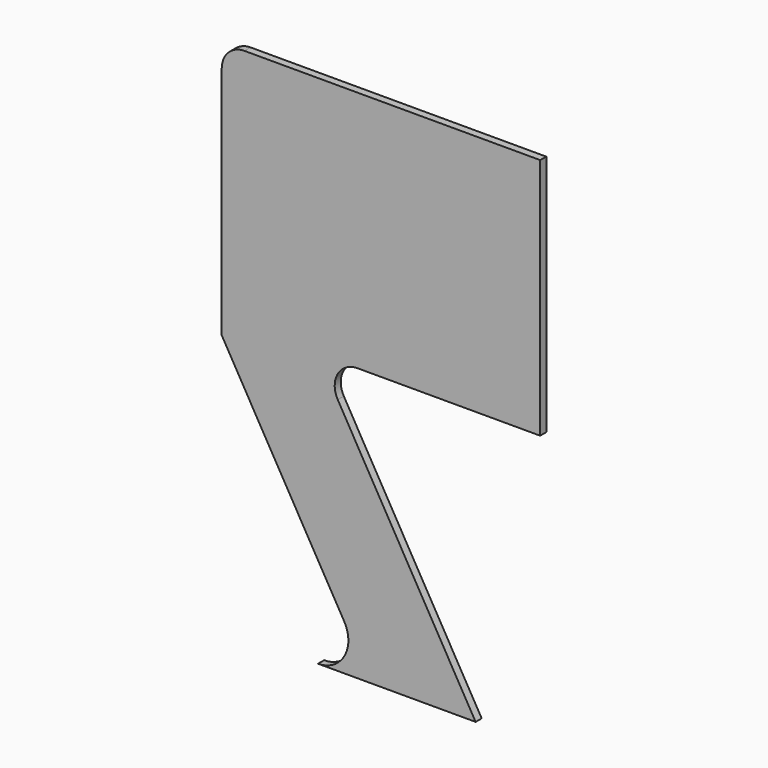
from build123d import *

# Parameters (mm, degrees)
F0_W     = 533.4
F0_H     = 863.6
F1_DEPTH = 12.7
F3_DEPTH = 12.701
F4_R     = 38.1


with BuildPart() as f1:
    # F0 (on Front) → F1 (new body)
    with BuildSketch(Plane.XZ):
        Rectangle(F0_W, F0_H)
    extrude(amount=F1_DEPTH)

    # F2 (on face) → F3 (cut, through all)
    with BuildSketch(Plane.XZ.offset(12.7)):
        with BuildLine():
            Line((-61.394244, -355.6), (-266.7, 0))
            Line((-266.7, 0), (-266.7, -431.8))
            Line((-266.7, -431.8), (-105.388335, -431.8))
            ThreePointArc((-105.388335, -431.8), (-61.394244, -406.4), (-61.394244, -355.6))
        make_face()
        Polygon((-105.388335, 25.4), (158.576208, -431.8), (266.7, -431.8), (266.7, 25.4), align=None)
    extrude(amount=-F3_DEPTH, mode=Mode.SUBTRACT)

    # F4
    f4_edges = [f1.edges().sort_by_distance(p)[0] for p in [
        (-266.7, -6.35, 431.8),
        (-105.388335, -6.35, 25.4),
    ]]
    fillet(f4_edges, radius=F4_R)


solid = f1.part
